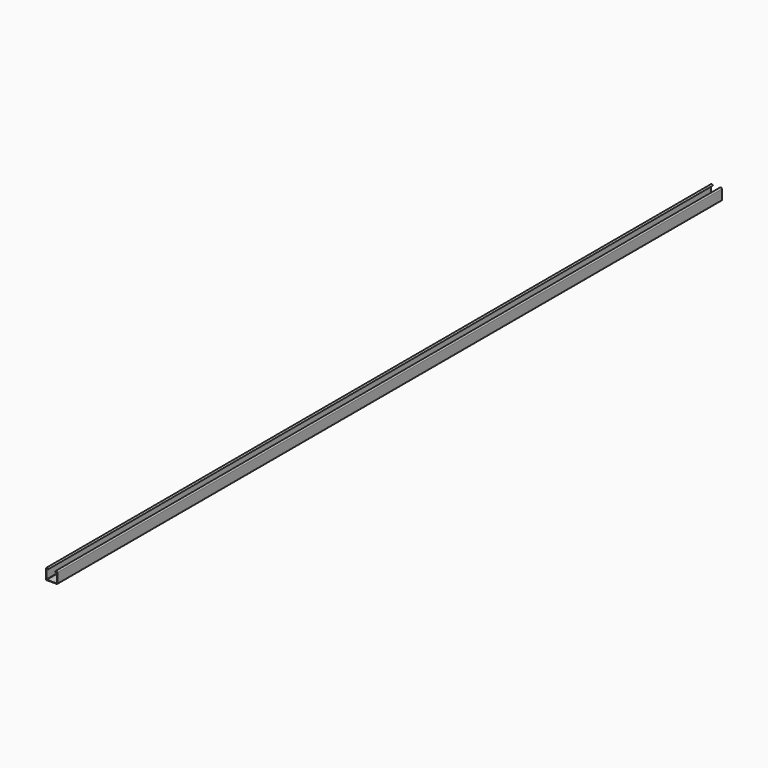
from build123d import *

# Parameters (mm, degrees)
F0_W     = 1.5875
F0_H     = 1.5875
F0_W_2   = 38.1
F1_DEPTH = 1524
F2_R     = 1.5875


with BuildPart() as f1:
    # F0 (on Front) → F1 (new body, symmetric)
    with BuildSketch(Plane.XZ):
        with Locations((19.84375, -19.84375)):
            Rectangle(F0_W, F0_H)
        with Locations((0, -19.84375)):
            Rectangle(F0_W_2, F0_H)
        with BuildLine():
            Line((19.05, -19.05), (20.6375, -19.05))
            Line((20.6375, -19.05), (20.6375, 16.6669618338))
            ThreePointArc((20.6375, 16.6669618338), (16.66875, 20.6357118338), (12.7, 16.6669618338))
            Line((12.7, 16.6669618338), (14.2875, 16.6669618338))
            ThreePointArc((14.2875, 16.6669618338), (16.66875, 19.0482118338), (19.05, 16.6669618338))
            Line((19.05, 16.6669618338), (19.05, -19.05))
        make_face()
        with Locations((-19.84375, -19.84375)):
            Rectangle(F0_W, F0_H)
        with BuildLine():
            Line((-20.6375, -19.05), (-19.05, -19.05))
            Line((-19.05, -19.05), (-19.05, 16.6669618338))
            ThreePointArc((-19.05, 16.6669618338), (-16.66875, 19.0482118338), (-14.2875, 16.6669618338))
            Line((-14.2875, 16.6669618338), (-12.7, 16.6669618338))
            ThreePointArc((-12.7, 16.6669618338), (-16.66875, 20.6357118338), (-20.6375, 16.6669618338))
            Line((-20.6375, 16.6669618338), (-20.6375, -19.05))
        make_face()
    extrude(amount=F1_DEPTH, both=True)

    # F2
    f2_edges = [f1.edges().sort_by_distance(p)[0] for p in [
        (-19.05, 0, -19.05),
        (19.05, 0, -19.05),
        (20.6375, 0, -20.6375),
        (-20.6375, 0, -20.6375),
    ]]
    fillet(f2_edges, radius=F2_R)


solid = f1.part
